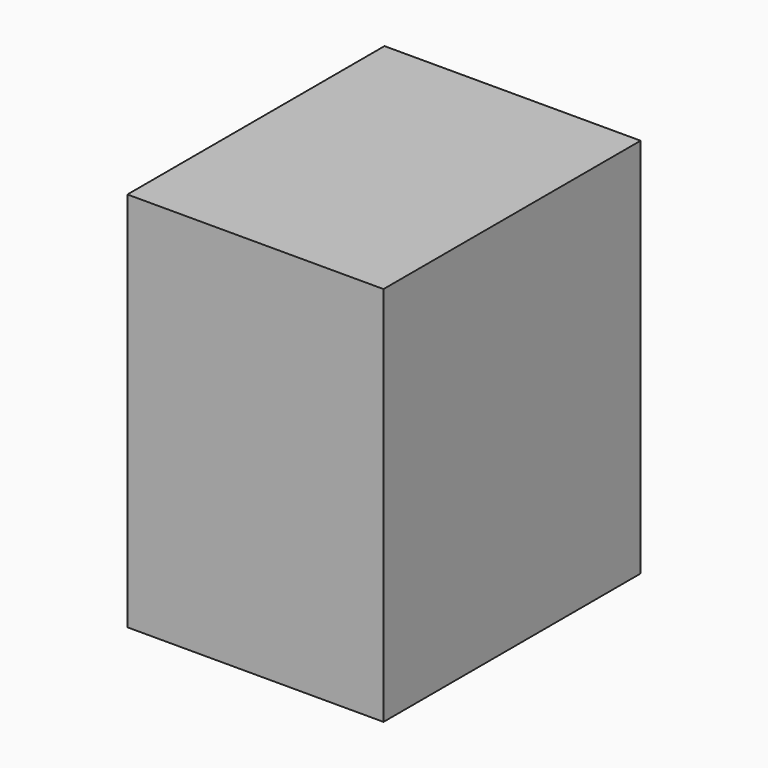
from build123d import *

# Parameters (mm, degrees)
F0_W     = 41
F0_H     = 51.442152
F1_DEPTH = 61
F2_W     = 34.694057
F2_H     = 36.070803
F3_DEPTH = 2
F4_W     = 8.398162
F4_H     = 8.535839
F5_DEPTH = 1.5


with BuildPart() as f1:
    # F0 (on Top) → F1 (new body)
    with BuildSketch(Plane.XY):
        with Locations((13.462494, -30.967161)):
            Rectangle(F0_W, F0_H)
    extrude(amount=F1_DEPTH)

    # F2 (on face) → F3 (join)
    with BuildSketch(Plane(origin=(0, -5.246085, 0), x_dir=(-1, 0, 0), z_dir=(0, 1, 0))):
        with Locations((-13.354457, 36.070805)):
            Rectangle(F2_W, F2_H)
    extrude(amount=F3_DEPTH)

    # F4 (on face) → F5 (join)
    with BuildSketch(Plane(origin=(0, -3.246085, 0), x_dir=(-1, 0, 0), z_dir=(0, 1, 0))):
        with Locations((-20.031688, 39.099652)):
            Rectangle(F4_W, F4_H)
        with Locations((-6.677231, 39.099652)):
            Rectangle(F4_W, F4_H)
    extrude(amount=F5_DEPTH)


solid = f1.part
